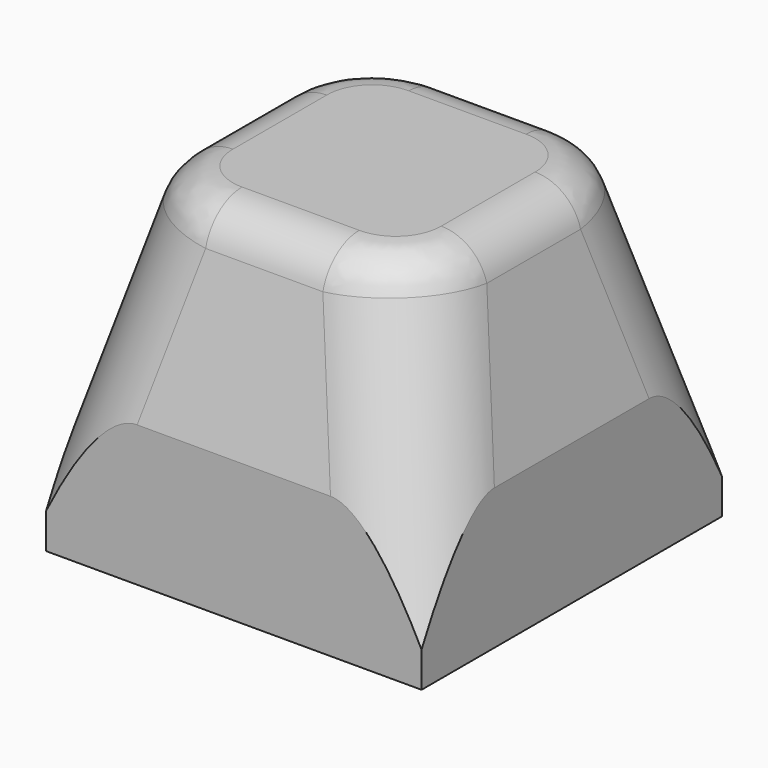
from build123d import *

# Parameters (mm, degrees)
F0_W     = 10.16
F0_H     = 10.16
F1_DEPTH = 8.89
F2_SIZE2 = 5.08
F2_SIZE  = 1.27
F3_R     = 2.54
F4_R     = 1.27


with BuildPart() as f1:
    # F0 (on Top) → F1 (new body)
    with BuildSketch(Plane.XY):
        with Locations((5.08, 5.08)):
            Rectangle(F0_W, F0_H)
    extrude(amount=F1_DEPTH)

    # F2
    f2_edges = [f1.edges().sort_by_distance(p)[0] for p in [
        (10.16, 5.08, 8.89),
        (5.08, 0, 8.89),
        (0, 5.08, 8.89),
        (5.08, 10.16, 8.89),
    ]]
    f2_side = f1.faces().sort_by_distance((5.08, 5.08, 8.89))[0]
    chamfer(f2_edges, length=F2_SIZE, length2=F2_SIZE2, reference=f2_side)

    # F3
    f3_edges = [f1.edges().sort_by_distance(p)[0] for p in [
        (9.525, 0.635, 6.35),
        (9.525, 9.525, 6.35),
        (0.635, 9.525, 6.35),
        (0.635, 0.635, 6.35),
    ]]
    fillet(f3_edges, radius=F3_R)

    # F4
    f4_edges = [f1.edges().sort_by_distance(p)[0] for p in [
        (1.983172, 8.176828, 8.89),
    ]]
    fillet(f4_edges, radius=F4_R)


solid = f1.part
